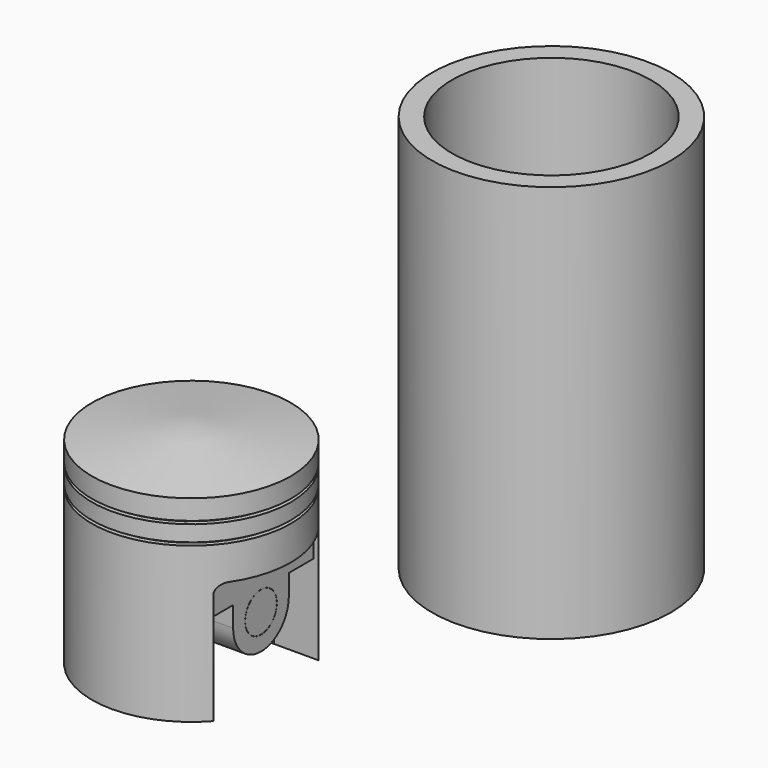
from build123d import *

# Parameters (mm, degrees)
F0_R      = 50
F3_DEPTH  = 99
F4_W      = 2.5
F4_H      = 1.5
F10_DEPTH = 35
F12_DEPTH = 35
F5_R      = 10
F13_DEPTH = 19.8
F15_W     = 30
F15_H     = 66
F16_DEPTH = 60.8
F17_DEPTH = 60
F20_R     = 10
F22_DEPTH = 25
F21_R     = 10
F23_DEPTH = 25
F27_DEPTH = 25
F28_DEPTH = 25
F29_R     = 9.95
F30_DEPTH = 35
F31_R     = 60
F32_DEPTH = 250
F33_R     = 50
F34_DEPTH = 250
F36_R     = 60
F36_R_2   = 50
F37_DEPTH = 200


with BuildPart() as f2:
    # F1 (on Right) → F2 (revolve)
    with BuildSketch(Plane.YZ):
        Polygon((-50, 0), (0, 0), (0, 6.5), align=None)
    revolve(axis=Axis((0, 0, 3.25), (0, 0, 1)))

    # F15 (on face) → F17 (cut)
    with BuildSketch(Plane(origin=(0, 0, -99), x_dir=(1, 0, 0), z_dir=(0, 0, -1))):
        Rectangle(F15_W, F15_H)
    extrude(amount=-F17_DEPTH, mode=Mode.SUBTRACT)



with BuildPart() as f3:
    # F0 (on Top) → F3 (new body)
    with BuildSketch(Plane.XY):
        Circle(F0_R)
    extrude(amount=-F3_DEPTH)

    # F4 (on Right) → F6 (revolve, cut)
    with BuildSketch(Plane.YZ):
        with Locations((-48.75, -10.75)):
            Rectangle(F4_W, F4_H)
        with Locations((-48.75, -20.25)):
            Rectangle(F4_W, F4_H)
    revolve(axis=Axis((0, 0, 0), (0, 0, 1)), mode=Mode.SUBTRACT)

    # F9 (on offset) → F10 (cut)
    with BuildSketch(Plane.YZ.offset(50)):
        with BuildLine():
            Line((-33.0612659454, -43.1885213554), (-33.0612659454, -99))
            Line((-33.0612659454, -99), (33.0612659454, -99))
            Line((33.0612659454, -99), (33.0612659454, -43.1885213554))
            ThreePointArc((33.0612659454, -43.1885213554), (31.5967998514, -39.6529874495), (28.0612659454, -38.1885213554))
            Line((28.0612659454, -38.1885213554), (-28.0612659454, -38.1885213554))
            ThreePointArc((-28.0612659454, -38.1885213554), (-31.5967998514, -39.6529874495), (-33.0612659454, -43.1885213554))
        make_face()
    extrude(amount=-F10_DEPTH, mode=Mode.SUBTRACT)

    # F11 (on offset) → F12 (cut)
    with BuildSketch(Plane.YZ.offset(-50)):
        with BuildLine():
            Line((28.0612659454, -38.1885213554), (-28.0612659454, -38.1885213554))
            ThreePointArc((-28.0612659454, -38.1885213554), (-31.5967998514, -39.6529874495), (-33.0612659454, -43.1885213554))
            Line((-33.0612659454, -43.1885213554), (-33.0612659454, -99))
            Line((-33.0612659454, -99), (33.0612659454, -99))
            Line((33.0612659454, -99), (33.0612659454, -43.1885213554))
            ThreePointArc((33.0612659454, -43.1885213554), (31.5967998514, -39.6529874495), (28.0612659454, -38.1885213554))
        make_face()
    extrude(amount=F12_DEPTH, mode=Mode.SUBTRACT)


with BuildPart() as f13:
    # F5 (on Right) → F13 (new body, symmetric)
    with BuildSketch(Plane.YZ):
        with Locations((0, -57.3838736531)):
            Circle(F5_R)
    extrude(amount=F13_DEPTH, both=True)


with BuildPart() as f3_1:
    add(f3.part)

    # F14: cut F13
    add(f13.part, mode=Mode.SUBTRACT)

    # F15 (on face) → F16 (cut)
    with BuildSketch(Plane(origin=(0, 0, -99), x_dir=(1, 0, 0), z_dir=(0, 0, -1))):
        Rectangle(F15_W, F15_H)
    extrude(amount=-F16_DEPTH, mode=Mode.SUBTRACT)

    # F20 (on offset) → F22 (join)
    with BuildSketch(Plane.YZ.offset(10)):
        with BuildLine():
            Line((-17.5, -38.2), (-17.5, -65))
            ThreePointArc((-17.5, -65), (0, -82.5), (17.5, -65))
            Line((17.5, -65), (17.5, -38.2))
            Line((17.5, -38.2), (-17.5, -38.2))
        make_face()
        with Locations((0, -65)):
            Circle(F20_R, mode=Mode.SUBTRACT)
    extrude(amount=F22_DEPTH)

    # F21 (on offset) → F23 (join)
    with BuildSketch(Plane.YZ.offset(-10)):
        with BuildLine():
            Line((-17.5, -38.2), (-17.5, -65))
            ThreePointArc((-17.5, -65), (0, -82.5), (17.5, -65))
            Line((17.5, -65), (17.5, -38.2))
            Line((17.5, -38.2), (-17.5, -38.2))
        make_face()
        with Locations((0, -65)):
            Circle(F21_R, mode=Mode.SUBTRACT)
    extrude(amount=-F23_DEPTH)

    # F24 (on face) → F27 (join)
    with BuildSketch(Plane(origin=(-35, 0, 0), x_dir=(0, -1, 0), z_dir=(-1, 0, 0))):
        with BuildLine():
            Line((28.0612659454, -38.1885213554), (-28.0612659454, -38.1885213554))
            ThreePointArc((-28.0612659454, -38.1885213554), (-31.5967998514, -39.6529874495), (-33.0612659454, -43.1885213554))
            Line((-33.0612659454, -43.1885213554), (-33.0612659454, -54.7885213554))
            Line((-33.0612659454, -54.7885213554), (33.0612659454, -54.7885213554))
            Line((33.0612659454, -54.7885213554), (33.0612659454, -43.1885213554))
            ThreePointArc((33.0612659454, -43.1885213554), (31.5967998514, -39.6529874495), (28.0612659454, -38.1885213554))
        make_face()
    extrude(amount=-F27_DEPTH)


with BuildPart() as f2_1:
    add(f2.part)

    add(f3_1.part)  # F28 merges F3
    # F26 (on offset) → F28 (join)
    with BuildSketch(Plane.YZ.offset(35)):
        with BuildLine():
            Line((28.0612659454, -38.1885213554), (-28.0612659454, -38.1885213554))
            ThreePointArc((-28.0612659454, -38.1885213554), (-31.5967998514, -39.6529874495), (-33.0612659454, -43.1885213554))
            Line((-33.0612659454, -43.1885213554), (-33.0612659454, -54.7885213554))
            Line((-33.0612659454, -54.7885213554), (33.0612659454, -54.7885213554))
            Line((33.0612659454, -54.7885213554), (33.0612659454, -43.1885213554))
            ThreePointArc((33.0612659454, -43.1885213554), (31.5967998514, -39.6529874495), (28.0612659454, -38.1885213554))
        make_face()
    extrude(amount=-F28_DEPTH)


with BuildPart() as f30:
    # F29 (on Right) → F30 (new body, symmetric)
    with BuildSketch(Plane.YZ):
        with Locations((0, -65)):
            Circle(F29_R)
    extrude(amount=F30_DEPTH, both=True)


with BuildPart() as f32:
    # F31 (on Top) → F32 (new body)
    with BuildSketch(Plane.XY):
        with Locations((170.8920747042, -5.8375727385)):
            Circle(F31_R)
    extrude(amount=F32_DEPTH)

    # F33 (on face) → F34 (cut)
    with BuildSketch(Plane.XY.offset(250)):
        with Locations((170.8920747042, -5.8375727385)):
            Circle(F33_R)
    extrude(amount=-F34_DEPTH, mode=Mode.SUBTRACT)


with BuildPart() as f37:
    # F36 (on Top) → F37 (new body)
    with BuildSketch(Plane.XY):
        with Locations((178.9044439793, 2.6326305233)):
            Circle(F36_R)
        with Locations((178.9044439793, 2.6326305233)):
            Circle(F36_R_2, mode=Mode.SUBTRACT)
    extrude(amount=F37_DEPTH)


solid = Compound([f2_1.part, f30.part, f37.part])
